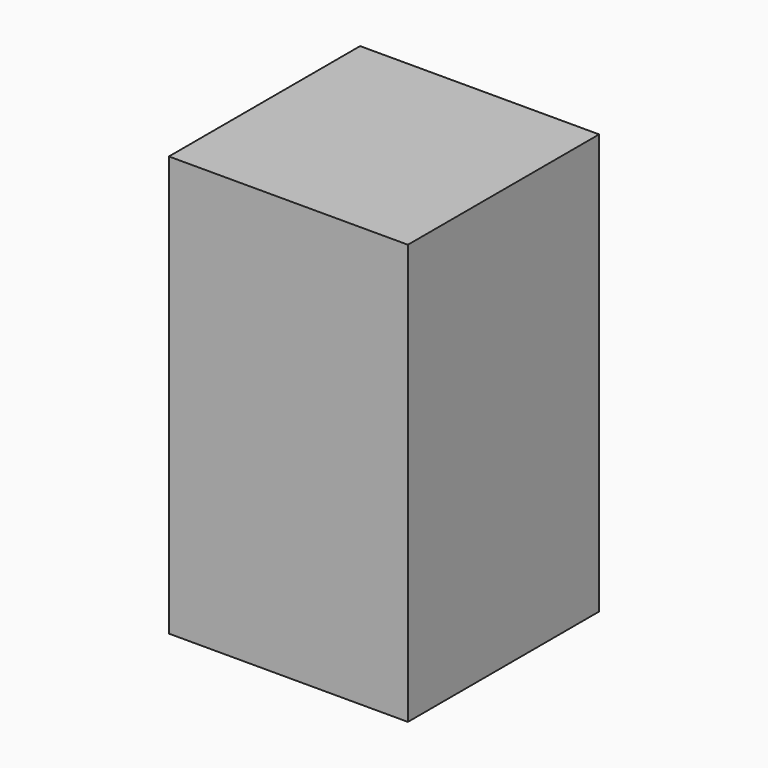
from build123d import *

# Parameters (mm, degrees)
BOX002_W          = 33
BOX002_H          = 33
BOX002_DEPTH      = 58
CYLINDER005_R     = 7.5
CYLINDER005_DEPTH = 10


with BuildPart() as cube002:
    # Box002 → Box002 (new body)
    with BuildSketch(Plane(origin=(-16.5, -16.5, 3), x_dir=(1, 0, 0), z_dir=(0, 0, 1))):
        with Locations((16.5, 16.5)):
            Rectangle(BOX002_W, BOX002_H)
    extrude(amount=BOX002_DEPTH)


with BuildPart() as laser_module:
    # Cylinder005 → Cylinder005 (new body)
    with BuildSketch(Plane.XY.offset(-2)):
        Circle(CYLINDER005_R)
    extrude(amount=CYLINDER005_DEPTH)

    # Fusion006: union Cube002
    add(cube002.part)


with BuildPart() as laser_module_1:
    # Fusion006 placement: moved
    add(laser_module.part.moved(Location((0, 0, -2))))


solid = laser_module_1.part
